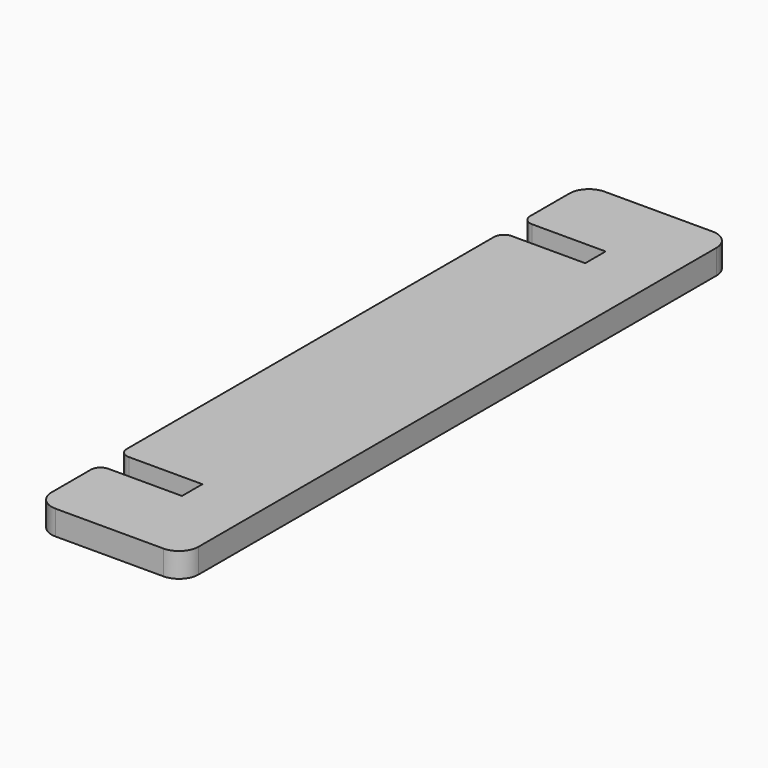
from build123d import *

# Parameters (mm, degrees)
F1_DEPTH  = 3.175
F2_R      = 2.54
F3_R      = 1.27
F1_FACE_W = 3.302
F1_FACE_H = 3.175
F4_DEPTH  = 1.143


with BuildPart() as f1:
    # F0 (on Top) → F1 (new body)
    with BuildSketch(Plane.XY):
        Polygon((9.525, 44.45), (-9.525, 44.45), (-9.525, 34.29), (0.127, 34.29), (0.127, 30.988), (-9.525, 30.988), (-9.525, -30.988), (0.127, -30.988), (0.127, -34.29), (-9.525, -34.29), (-9.525, -44.45), (9.525, -44.45), align=None)
    extrude(amount=F1_DEPTH)

    # F2
    f2_edges = [f1.edges().sort_by_distance(p)[0] for p in [
        (-9.525, 44.45, 1.5875),
        (9.525, 44.45, 1.5875),
        (9.525, -44.45, 1.5875),
        (-9.525, -44.45, 1.5875),
    ]]
    fillet(f2_edges, radius=F2_R)

    # F3
    f3_edges = [f1.edges().sort_by_distance(p)[0] for p in [
        (-9.525, 34.29, 1.5875),
        (-9.525, -30.988, 1.5875),
        (-9.525, 30.988, 1.5875),
        (-9.525, -34.29, 1.5875),
    ]]
    fillet(f3_edges, radius=F3_R)

    # F1_face (on face) → F4 (cut)
    with BuildSketch(Plane(origin=(0.127, 32.639, 1.5875), x_dir=(0, -1, 0), z_dir=(-1, 0, 0))):
        Rectangle(F1_FACE_W, F1_FACE_H)
        with Locations((65.278, 0)):
            Rectangle(F1_FACE_W, F1_FACE_H)
    extrude(amount=-F4_DEPTH, mode=Mode.SUBTRACT)


solid = f1.part
